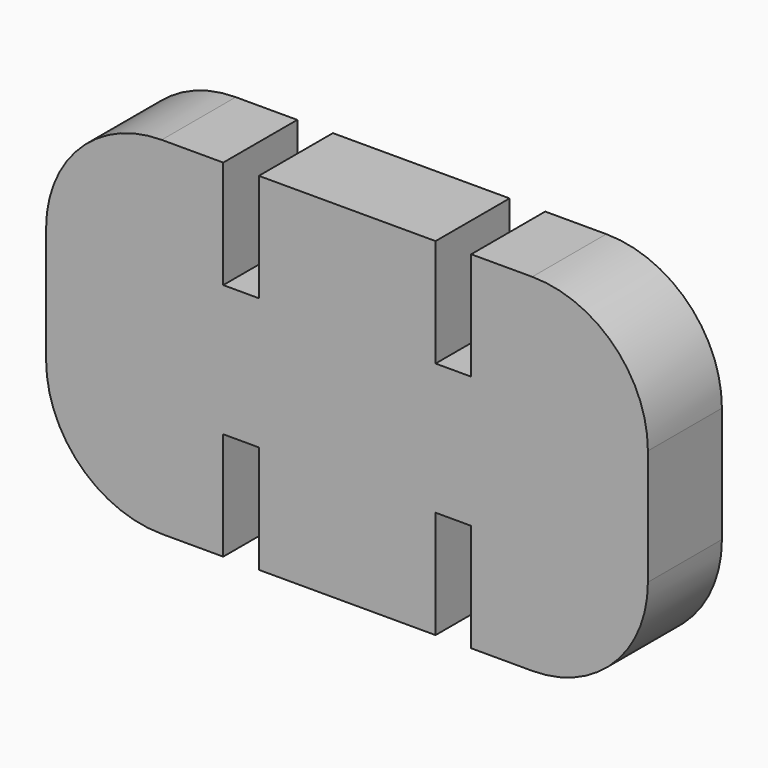
from build123d import *

# Parameters (mm, degrees)
F1_DEPTH = 5.08


with BuildPart() as f1:
    # F0 (on Front) → F1 (new body)
    with BuildSketch(Plane.XZ):
        with BuildLine():
            ThreePointArc((-61.023566, 40.869921), (-65.513694, 39.010049), (-67.373566, 34.519921))
            Line((-67.373566, 34.519921), (-67.373566, 28.169921))
            ThreePointArc((-67.373566, 28.169921), (-65.513694, 23.679793), (-61.023566, 21.819921))
            Line((-61.023566, 21.819921), (-57.645831, 21.819921))
            Line((-57.645831, 21.819921), (-57.645831, 27.738121))
            Line((-57.645831, 27.738121), (-55.690031, 27.738121))
            Line((-55.690031, 27.738121), (-55.690031, 21.819921))
            Line((-55.690031, 21.819921), (-45.987231, 21.819921))
            Line((-45.987231, 21.819921), (-45.987231, 27.738121))
            Line((-45.987231, 27.738121), (-44.031431, 27.738121))
            Line((-44.031431, 27.738121), (-44.031431, 21.819921))
            Line((-44.031431, 21.819921), (-40.681209, 21.818561))
            ThreePointArc((-40.681209, 21.818561), (-36.189415, 23.677522), (-34.328631, 28.168561))
            Line((-34.328631, 28.168561), (-34.328631, 34.515983))
            ThreePointArc((-34.328631, 34.515983), (-36.188503, 39.006111), (-40.678631, 40.865983))
            Line((-40.678631, 40.865983), (-44.031431, 40.865983))
            Line((-44.031431, 40.865983), (-44.031431, 34.947783))
            Line((-44.031431, 34.947783), (-45.987231, 34.947783))
            Line((-45.987231, 34.947783), (-45.987231, 40.865983))
            Line((-45.987231, 40.865983), (-55.690031, 40.865983))
            Line((-55.690031, 40.865983), (-55.690031, 34.947783))
            Line((-55.690031, 34.947783), (-57.645831, 34.947783))
            Line((-57.645831, 34.947783), (-57.645831, 40.869921))
            Line((-57.645831, 40.869921), (-61.023566, 40.869921))
        make_face()
    extrude(amount=F1_DEPTH)


solid = f1.part
